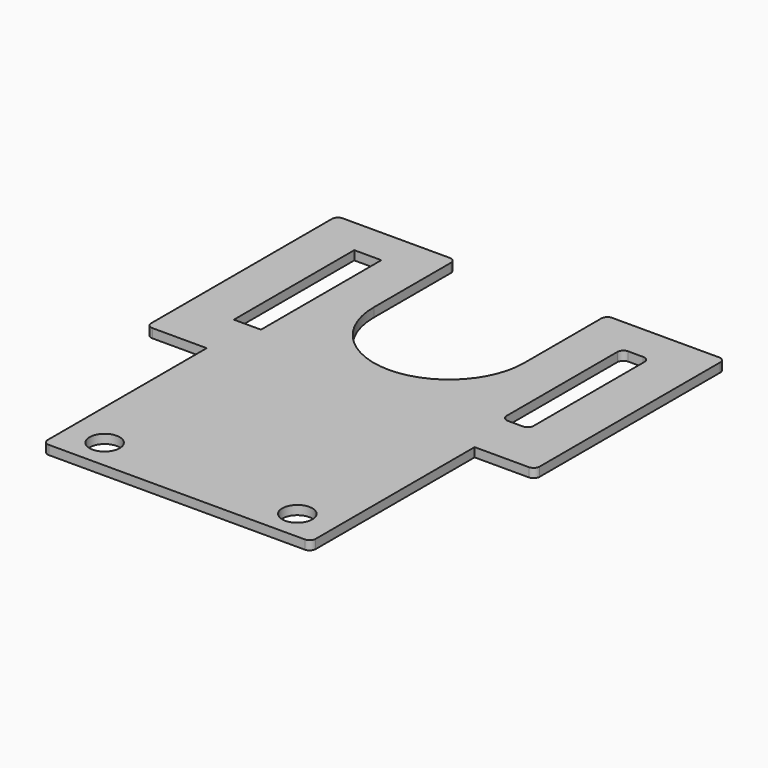
from build123d import *

# Parameters (mm, degrees)
F0_R     = 5
F1_DEPTH = 3


with BuildPart() as f1:
    # F0 (on Top) → F1 (new body)
    with BuildSketch(Plane.XY):
        with BuildLine():
            Line((-105.220296, 49.665504), (-140.720296, 49.665504))
            ThreePointArc((-140.720296, 49.665504), (-142.13451, 49.079717), (-142.720296, 47.665504))
            Line((-142.720296, 47.665504), (-142.720296, -27.334496))
            ThreePointArc((-142.720296, -27.334496), (-142.13451, -28.74871), (-140.720296, -29.334496))
            Line((-140.720296, -29.334496), (-122.720296, -29.334496))
            Line((-122.720296, -29.334496), (-122.720296, -95.334496))
            ThreePointArc((-122.720296, -95.334496), (-122.13451, -96.74871), (-120.720296, -97.334496))
            Line((-120.720296, -97.334496), (-35.720296, -97.334496))
            ThreePointArc((-35.720296, -97.334496), (-34.306083, -96.74871), (-33.720296, -95.334496))
            Line((-33.720296, -95.334496), (-33.720296, -29.334496))
            Line((-33.720296, -29.334496), (-15.720296, -29.334496))
            ThreePointArc((-15.720296, -29.334496), (-14.306083, -28.74871), (-13.720296, -27.334496))
            Line((-13.720296, -27.334496), (-13.720296, 47.665504))
            ThreePointArc((-13.720296, 47.665504), (-14.306083, 49.079717), (-15.720296, 49.665504))
            Line((-15.720296, 49.665504), (-51.220296, 49.665504))
            ThreePointArc((-51.220296, 49.665504), (-52.63451, 49.079717), (-53.220296, 47.665504))
            Line((-53.220296, 47.665504), (-53.220296, 15.665504))
            ThreePointArc((-53.220296, 15.665504), (-78.220296, -9.334496), (-103.220296, 15.665504))
            Line((-103.220296, 15.665504), (-103.220296, 47.665504))
            ThreePointArc((-103.220296, 47.665504), (-103.806083, 49.079717), (-105.220296, 49.665504))
        make_face()
        with Locations((-110.220296, -87.334496)):
            Circle(F0_R, mode=Mode.SUBTRACT)
        with Locations((-46.220296, -87.334496)):
            Circle(F0_R, mode=Mode.SUBTRACT)
        Polygon((-120.220296, 37.565504), (-118.220296, 37.565504), (-118.220296, 35.565504), (-118.220296, -10.434496), (-118.220296, -12.434496), (-120.220296, -12.434496), (-125.220296, -12.434496), (-127.220296, -12.434496), (-127.220296, -10.434496), (-127.220296, 35.565504), (-127.220296, 37.565504), (-125.220296, 37.565504), align=None, mode=Mode.SUBTRACT)
        with BuildLine():
            ThreePointArc((-38.220296, 35.565504), (-37.63451, 36.979717), (-36.220296, 37.565504))
            Line((-36.220296, 37.565504), (-31.220296, 37.565504))
            ThreePointArc((-31.220296, 37.565504), (-29.806083, 36.979717), (-29.220296, 35.565504))
            Line((-29.220296, 35.565504), (-29.220296, -10.434496))
            ThreePointArc((-29.220296, -10.434496), (-29.806083, -11.84871), (-31.220296, -12.434496))
            Line((-31.220296, -12.434496), (-36.220296, -12.434496))
            ThreePointArc((-36.220296, -12.434496), (-37.63451, -11.84871), (-38.220296, -10.434496))
            Line((-38.220296, -10.434496), (-38.220296, 35.565504))
        make_face(mode=Mode.SUBTRACT)
    extrude(amount=F1_DEPTH)


solid = f1.part
